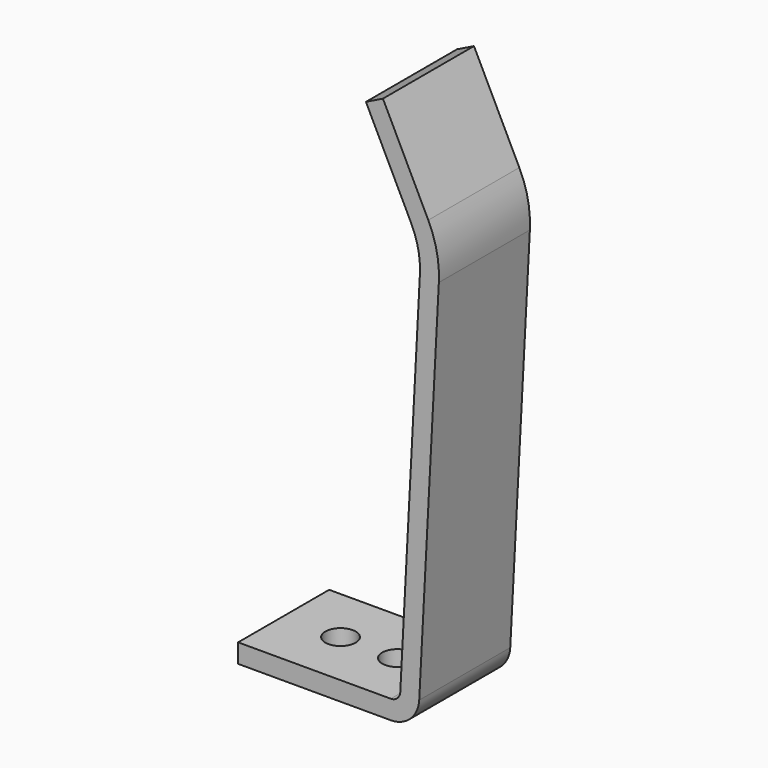
from build123d import *

# Parameters (mm, degrees)
F0_W     = 6
F0_H     = 1
F3_R     = 0.8
F4_DEPTH = 1


with BuildPart() as f2:
    # F2: sweep along a path in F1
    with BuildLine(Plane.XZ) as f2_path:
        Line((0, 0), (8.051074, 0))
        ThreePointArc((8.051074, 0), (8.739414, 0.274611), (9.049702, 0.947623))
        Line((9.049702, 0.947623), (10.084131, 20.670188))
        ThreePointArc((10.084131, 20.670188), (9.9891, 21.936342), (9.578204, 23.137734))
        Line((9.578204, 23.137734), (7.188188, 28))
    # F0 (on Right) → F2 (sweep)
    with BuildSketch(Plane.YZ):
        Rectangle(F0_W, F0_H)
    sweep(path=f2_path.line)

    # F3 (on face) → F4 (cut, symmetric)
    with BuildSketch(Plane.XY.offset(0.5)):
        with Locations((3, 0)):
            Circle(F3_R)
        with Locations((6, 0)):
            Circle(F3_R)
    extrude(amount=F4_DEPTH, both=True, mode=Mode.SUBTRACT)


solid = f2.part
